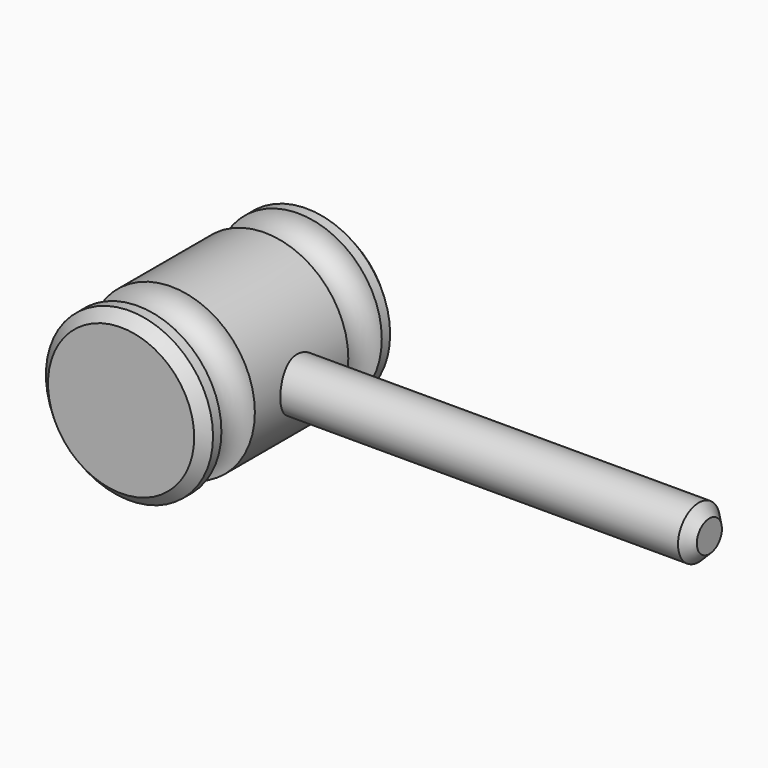
from build123d import *

# Parameters (mm, degrees)
F3_R      = 6.35
F4_DEPTH  = 101.6
F5_SIZE   = 2.54
F5_2_SIZE = 2.54


with BuildPart() as f1:
    # F0 (on Top) → F1 (revolve)
    with BuildSketch(Plane.XY):
        with BuildLine():
            Line((0, 58.846702), (0, 0))
            Line((0, 0), (20.292558, 0))
            Line((20.292558, 0), (20.292558, 5.08))
            ThreePointArc((20.292558, 5.08), (15.212558, 10.16), (20.292558, 15.24))
            Line((20.292558, 15.24), (20.292558, 43.606702))
            ThreePointArc((20.292558, 43.606702), (15.212558, 48.686702), (20.292558, 53.766702))
            Line((20.292558, 53.766702), (20.292558, 58.846702))
            Line((20.292558, 58.846702), (0, 58.846702))
        make_face()
    revolve(axis=Axis((0, 29.423351, 0), (0, 1, 0)))

    # F5
    f5_edges = [f1.edges().sort_by_distance(p)[0] for p in [
        (-20.292558, 0, 0),
        (-20.292558, 58.846702, 0),
    ]]
    chamfer(f5_edges, length=F5_SIZE)


with BuildPart() as f4:
    # F3 (on offset) → F4 (new body)
    with BuildSketch(Plane.YZ.offset(17.78)):
        with Locations((29.3624, 0)):
            Circle(F3_R)
    extrude(amount=F4_DEPTH)

    # F5#2
    f5_2_edges = [f4.edges().sort_by_distance(p)[0] for p in [
        (119.38, 23.0124, 0),
    ]]
    chamfer(f5_2_edges, length=F5_2_SIZE)


solid = Compound([f1.part, f4.part])
